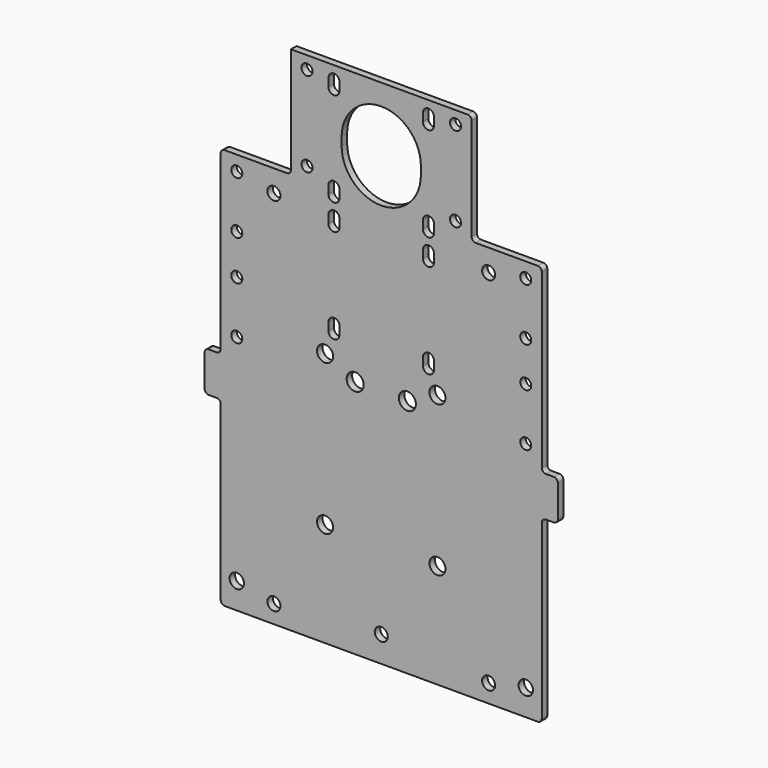
from build123d import *

# Parameters (mm, degrees)
F1_DEPTH = 3.42
F2_R     = 2
F4_D     = 8
F5_D     = 8.5
F6_D     = 6.5
F7_D     = 7.14
F8_D     = 5.5


with BuildPart() as f1:
    # F0 (on Front) → F1 (new body)
    with BuildSketch(Plane.XZ):
        Polygon((-80, -10), (-80, -100), (80, -100), (80, -10), (88, -10), (88, 10), (80, 10), (80, 100), (45, 100), (45, 155), (-45, 155), (-45, 100), (-80, 100), (-80, 10), (-88, 10), (-88, -10), align=None)
        with BuildLine():
            ThreePointArc((-26.32, 41.47), (-23.57, 44.22), (-20.82, 41.47))
            Line((-20.82, 41.47), (-20.82, 37.47))
            ThreePointArc((-20.82, 37.47), (-23.57, 34.72), (-26.32, 37.47))
            Line((-26.32, 37.47), (-26.32, 41.47))
        make_face(mode=Mode.SUBTRACT)
        with BuildLine():
            ThreePointArc((-26.32, 88.57), (-23.57, 91.32), (-20.82, 88.57))
            Line((-20.82, 88.57), (-20.82, 84.57))
            ThreePointArc((-20.82, 84.57), (-23.57, 81.82), (-26.32, 84.57))
            Line((-26.32, 84.57), (-26.32, 88.57))
        make_face(mode=Mode.SUBTRACT)
        with BuildLine():
            ThreePointArc((-26.32, 101.47), (-23.57, 104.22), (-20.82, 101.47))
            Line((-20.82, 101.47), (-20.82, 97.47))
            ThreePointArc((-20.82, 97.47), (-23.57, 94.72), (-26.32, 97.47))
            Line((-26.32, 97.47), (-26.32, 101.47))
        make_face(mode=Mode.SUBTRACT)
        with BuildLine():
            ThreePointArc((-26.32, 148.57), (-23.57, 151.32), (-20.82, 148.57))
            Line((-20.82, 148.57), (-20.82, 144.57))
            ThreePointArc((-20.82, 144.57), (-23.57, 141.82), (-26.32, 144.57))
            Line((-26.32, 144.57), (-26.32, 148.57))
        make_face(mode=Mode.SUBTRACT)
        with BuildLine():
            ThreePointArc((20.78, 41.47), (23.53, 44.22), (26.28, 41.47))
            Line((26.28, 41.47), (26.28, 37.47))
            ThreePointArc((26.28, 37.47), (23.53, 34.72), (20.78, 37.47))
            Line((20.78, 37.47), (20.78, 41.47))
        make_face(mode=Mode.SUBTRACT)
        with BuildLine():
            ThreePointArc((20.78, 88.57), (23.53, 91.32), (26.28, 88.57))
            Line((26.28, 88.57), (26.28, 84.57))
            ThreePointArc((26.28, 84.57), (23.53, 81.82), (20.78, 84.57))
            Line((20.78, 84.57), (20.78, 88.57))
        make_face(mode=Mode.SUBTRACT)
        with BuildLine():
            Line((-19.75, 120.82), (-19.75, 124.82))
            ThreePointArc((-19.75, 124.82), (0, 144.57), (19.75, 124.82))
            Line((19.75, 124.82), (19.75, 120.82))
            ThreePointArc((19.75, 120.82), (0, 101.07), (-19.75, 120.82))
        make_face(mode=Mode.SUBTRACT)
        with BuildLine():
            ThreePointArc((20.78, 101.47), (23.53, 104.22), (26.28, 101.47))
            Line((26.28, 101.47), (26.28, 97.47))
            ThreePointArc((26.28, 97.47), (23.53, 94.72), (20.78, 97.47))
            Line((20.78, 97.47), (20.78, 101.47))
        make_face(mode=Mode.SUBTRACT)
        with BuildLine():
            ThreePointArc((20.78, 148.57), (23.53, 151.32), (26.28, 148.57))
            Line((26.28, 148.57), (26.28, 144.57))
            ThreePointArc((26.28, 144.57), (23.53, 141.82), (20.78, 144.57))
            Line((20.78, 144.57), (20.78, 148.57))
        make_face(mode=Mode.SUBTRACT)
    extrude(amount=F1_DEPTH)

    # F2
    f2_edges = [f1.edges().sort_by_distance(p)[0] for p in [
        (45, -1.71, 155),
        (45, -1.71, 100),
        (80, -1.71, 100),
        (-45, -1.71, 100),
        (-80, -1.71, 100),
        (-80, -1.71, 10),
        (-88, -1.71, 10),
        (-88, -1.71, -10),
        (-80, -1.71, -10),
        (-80, -1.71, -100),
        (80, -1.71, -100),
        (80, -1.71, -10),
        (88, -1.71, -10),
        (88, -1.71, 10),
        (80, -1.71, 10),
    ]]
    fillet(f2_edges, radius=F2_R)

    # F4 (through all)
    with Locations(Plane.XZ.offset(3.42)):
        with Locations((-28, 27), (28, 27), (28, -48), (-28, -48)):
            Hole(F4_D / 2)

    # F5 (through all)
    with Locations(Plane.XZ.offset(3.42)):
        with Locations((-13, 19.5), (13, 19.5)):
            Hole(F5_D / 2)

    # F6 (through all)
    with Locations(Plane.XZ.offset(3.42)):
        with Locations((-53.5, 89), (53.5, 89), (-53.5, -91), (53.5, -91), (0, -87)):
            Hole(F6_D / 2)

    # F7 (through all)
    with Locations(Plane.XZ.offset(3.42)):
        with Locations((-72, -87), (72, -87)):
            Hole(F7_D / 2)

    # F8 (through all)
    with Locations(Plane.XZ.offset(3.42)):
        with Locations((-37, 148.65), (37, 148.65), (37, 106.35), (-37, 106.35), (-72, 92.5), (-72, 66.25), (-72, 20), (-72, 46.25), (72, 46.25), (72, 20), (72, 66.25), (72, 92.5)):
            Hole(F8_D / 2)


solid = f1.part
